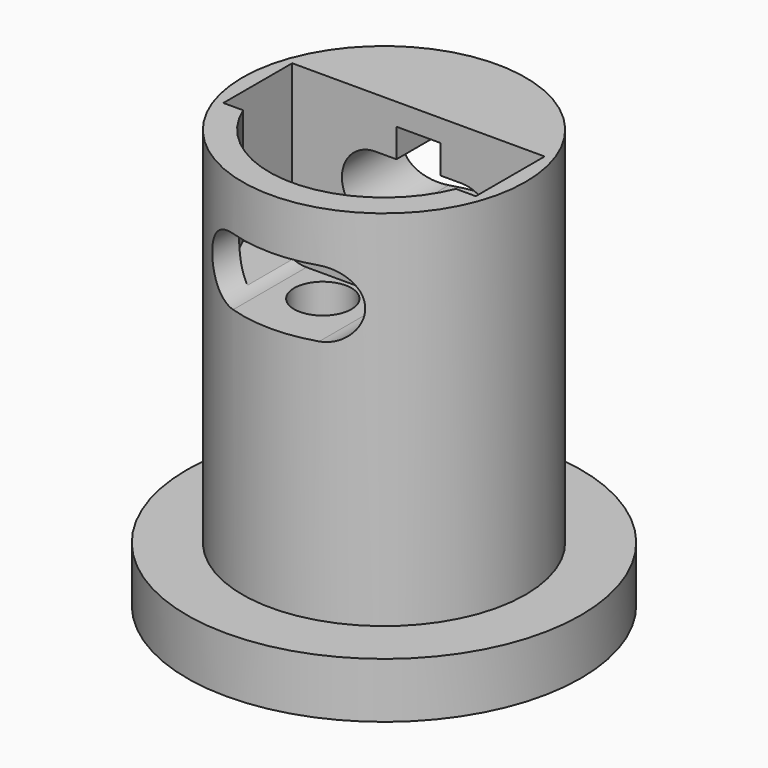
from build123d import *

# Parameters (mm, degrees)
SKETCH_R             = 10.3
PAD_DEPTH            = 2.9
SKETCH001_R          = 7.4
PAD001_DEPTH         = 19
SKETCH002_W          = 13.2
SKETCH002_H          = 4.5
POCKET_DEPTH         = 20
SKETCH003_W          = 8
SKETCH003_H          = 4.5
POCKET001_DEPTH      = 1.901
POCKET002_DEPTH      = 6
SKETCH005_R          = 1.5
POCKET003_DEPTH      = 15
POCKET004_DEPTH      = 20
POCKET004_DEPTH_BACK = -20
SKETCH007_W          = 2.3
SKETCH007_H          = 1.5
POCKET005_DEPTH      = 10.301


with BuildPart() as part:
    # Sketch → Pad (new body)
    with BuildSketch(Plane.XY):
        Circle(SKETCH_R)
    extrude(amount=PAD_DEPTH)

    # Sketch001 (on Face3 of Pad) → Pad001 (join)
    with BuildSketch(Plane.XY.offset(2.9)):
        Circle(SKETCH001_R)
    extrude(amount=PAD001_DEPTH)

    # Sketch002 (on Face5 of Pad001) → Pocket (cut)
    with BuildSketch(Plane.XY.offset(21.9)):
        Rectangle(SKETCH002_W, SKETCH002_H)
    extrude(amount=-POCKET_DEPTH, mode=Mode.SUBTRACT)

    # Sketch003 (on Face10 of Pocket) → Pocket001 (cut, through all)
    with BuildSketch(Plane.XY.offset(1.9)):
        Rectangle(SKETCH003_W, SKETCH003_H)
    extrude(amount=-POCKET001_DEPTH, mode=Mode.SUBTRACT)

    # Sketch004 (on Face9 of Pocket001) → Pocket002 (cut)
    with BuildSketch(Plane.XY.offset(21.9)):
        with BuildLine():
            ThreePointArc((-6, 0), (0, -6), (6, 0))
            Line((-6, 0), (6, 0))
        make_face()
    extrude(amount=-POCKET002_DEPTH, mode=Mode.SUBTRACT)

    # Sketch005 (on Face13 of Pocket002) → Pocket003 (cut)
    with BuildSketch(Plane.XY.offset(15.9)):
        with Locations((0, -4)):
            Circle(SKETCH005_R)
    extrude(amount=-POCKET003_DEPTH, mode=Mode.SUBTRACT)

    # Sketch006 → Pocket004 (cut, two sides)
    with BuildSketch(Plane.XZ) as pocket004_sk:
        with BuildLine():
            ThreePointArc((-2.25, 19.25), (-4, 17.5), (-2.25, 15.75))
            Line((-2.25, 15.75), (2.25, 15.75))
            ThreePointArc((2.25, 15.75), (4, 17.5), (2.25, 19.25))
            Line((-2.25, 19.25), (2.25, 19.25))
        make_face()
    extrude(amount=-POCKET004_DEPTH, mode=Mode.SUBTRACT)
    extrude(pocket004_sk.sketch, amount=-POCKET004_DEPTH_BACK, mode=Mode.SUBTRACT)

    # Sketch007 → Pocket005 (cut, through all)
    with BuildSketch(Plane.XZ):
        with Locations((0, 20)):
            Rectangle(SKETCH007_W, SKETCH007_H)
    extrude(amount=-POCKET005_DEPTH, mode=Mode.SUBTRACT)


solid = part.part
